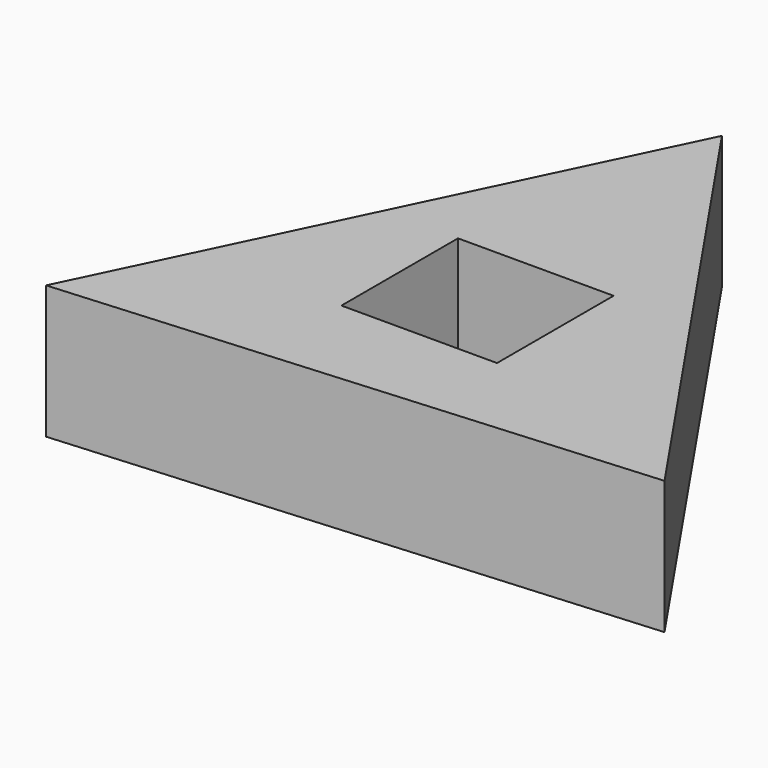
from build123d import *

# Parameters (mm, degrees)
F0_W     = 24.619864
F0_H     = 23.054572
F1_DEPTH = 21.082


with BuildPart() as f1:
    # F0 (on Top) → F1 (new body)
    with BuildSketch(Plane.XY):
        Polygon((-3.977364, 53.318289), (-44.18631, -30.103643), (48.163675, -23.214646), align=None)
        Rectangle(F0_W, F0_H, mode=Mode.SUBTRACT)
    extrude(amount=F1_DEPTH)


solid = f1.part
